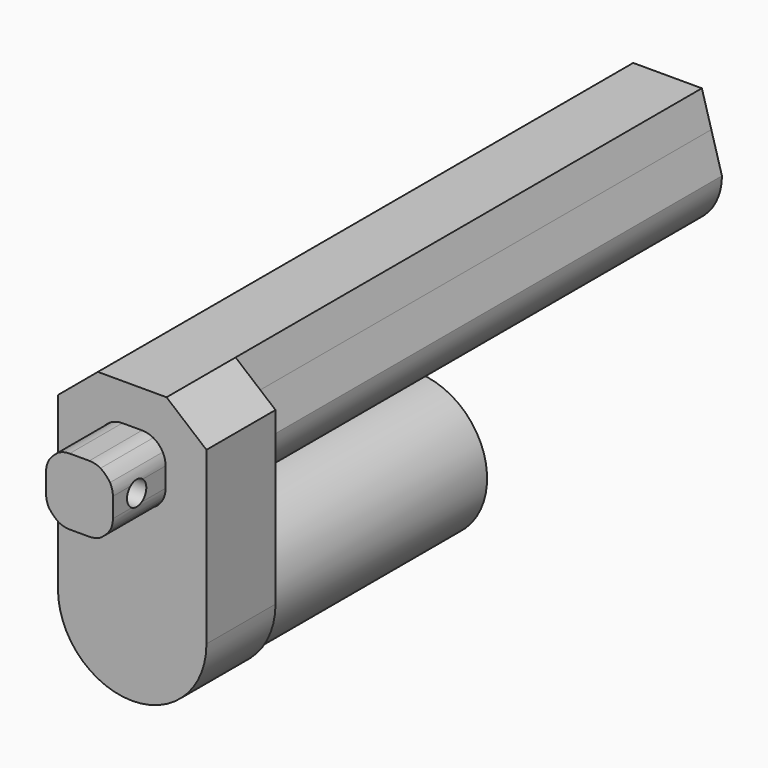
from build123d import *

# Parameters (mm, degrees)
F2_DEPTH = 23.25
F3_DEPTH = 41
F4_DEPTH = 72.5
F5_DEPTH = 74
F6_DEPTH = 157
F7_D     = 6.5
F7_DEPTH = 20.001
F8_D     = 6.5


with BuildPart() as f2:
    # F0 (on Front) → F2 (new body)
    with BuildSketch(Plane.XZ):
        Polygon((-9.25, 31.9843477787), (-20, 23.0156522213), (-11.7989976847, 23.0156522213), align=None)
        with BuildLine():
            Line((-11.7989976847, 23.0156522213), (-20, 23.0156522213))
            Line((-20, 23.0156522213), (-20, -23.0156522213))
            Line((-20, -23.0156522213), (-19, -23.0156522213))
            ThreePointArc((-19, -23.0156522213), (0, -4.0156522213), (19, -23.0156522213))
            Line((19, -23.0156522213), (20, -23.0156522213))
            Line((20, -23.0156522213), (20, 23.0156522213))
            Line((20, 23.0156522213), (11.7989976847, 23.0156522213))
            Line((11.7989976847, 23.0156522213), (14.65, 12.9843477787))
            ThreePointArc((14.65, 12.9843477787), (0, -1.7589444033), (-14.65, 12.9843477787))
            Line((-14.65, 12.9843477787), (-11.7989976847, 23.0156522213))
        make_face()
        Polygon((-9.25, 31.9843477787), (-11.7989976847, 23.0156522213), (11.7989976847, 23.0156522213), (9.25, 31.9843477787), align=None)
        with BuildLine():
            Line((-19, -23.0156522213), (-20, -23.0156522213))
            ThreePointArc((-20, -23.0156522213), (0, -43.0156522213), (20, -23.0156522213))
            Line((20, -23.0156522213), (19, -23.0156522213))
            ThreePointArc((19, -23.0156522213), (0, -42.0156522213), (-19, -23.0156522213))
        make_face()
        Polygon((9.25, 31.9843477787), (11.7989976847, 23.0156522213), (20, 23.0156522213), align=None)
        with BuildLine():
            Line((-10, 12.9843477787), (-14.65, 12.9843477787))
            ThreePointArc((-14.65, 12.9843477787), (0, -1.7589444033), (14.65, 12.9843477787))
            Line((14.65, 12.9843477787), (10, 12.9843477787))
            ThreePointArc((10, 12.9843477787), (9.5475471091, 10.0104035628), (8.2311311601, 7.3055732784))
            ThreePointArc((8.2311311601, 7.3055732784), (7.1401280605, 5.8442197181), (5.6787745002, 4.7532166185))
            ThreePointArc((5.6787745002, 4.7532166185), (0, 2.9843477787), (-5.6787745002, 4.7532166185))
            ThreePointArc((-5.6787745002, 4.7532166185), (-7.1401280605, 5.8442197181), (-8.2311311601, 7.3055732784))
            ThreePointArc((-8.2311311601, 7.3055732784), (-9.5475471091, 10.0104035628), (-10, 12.9843477787))
        make_face()
        with BuildLine():
            Line((11.7989976847, 23.0156522213), (-11.7989976847, 23.0156522213))
            Line((-11.7989976847, 23.0156522213), (-14.65, 12.9843477787))
            Line((-14.65, 12.9843477787), (-10, 12.9843477787))
            ThreePointArc((-10, 12.9843477787), (-9.5475471091, 15.9582919946), (-8.2311311601, 18.6631222789))
            ThreePointArc((-8.2311311601, 18.6631222789), (-7.1401280605, 20.1244758392), (-5.6787745002, 21.2154789388))
            ThreePointArc((-5.6787745002, 21.2154789388), (0, 22.9843477787), (5.6787745002, 21.2154789388))
            ThreePointArc((5.6787745002, 21.2154789388), (7.1401280605, 20.1244758392), (8.2311311601, 18.6631222789))
            ThreePointArc((8.2311311601, 18.6631222789), (9.5475471091, 15.9582919946), (10, 12.9843477787))
            Line((10, 12.9843477787), (14.65, 12.9843477787))
            Line((14.65, 12.9843477787), (11.7989976847, 23.0156522213))
        make_face()
        with BuildLine():
            ThreePointArc((5.6787745002, 21.2154789388), (0, 22.9843477787), (-5.6787745002, 21.2154789388))
            ThreePointArc((-5.6787745002, 21.2154789388), (-4.2124207393, 21.7891297759), (-2.65, 21.9843477787))
            Line((-2.65, 21.9843477787), (2.65, 21.9843477787))
            ThreePointArc((2.65, 21.9843477787), (4.2124207393, 21.7891297759), (5.6787745002, 21.2154789388))
        make_face()
        with BuildLine():
            ThreePointArc((-8.2311311601, 18.6631222789), (-9.5475471091, 15.9582919946), (-10, 12.9843477787))
            Line((-10, 12.9843477787), (-9, 12.9843477787))
            Line((-9, 12.9843477787), (-9, 15.6343477787))
            ThreePointArc((-9, 15.6343477787), (-8.8047819972, 17.1967685179), (-8.2311311601, 18.6631222789))
        make_face()
        with BuildLine():
            Line((-9, 12.9843477787), (-10, 12.9843477787))
            ThreePointArc((-10, 12.9843477787), (-9.5475471091, 10.0104035628), (-8.2311311601, 7.3055732784))
            ThreePointArc((-8.2311311601, 7.3055732784), (-8.8047819972, 8.7719270394), (-9, 10.3343477787))
            Line((-9, 10.3343477787), (-9, 12.9843477787))
        make_face()
        with BuildLine():
            ThreePointArc((8.2311311601, 7.3055732784), (9.5475471091, 10.0104035628), (10, 12.9843477787))
            Line((10, 12.9843477787), (9, 12.9843477787))
            Line((9, 12.9843477787), (9, 10.3343477787))
            ThreePointArc((9, 10.3343477787), (8.8047819972, 8.7719270394), (8.2311311601, 7.3055732784))
        make_face()
        with BuildLine():
            Line((9, 12.9843477787), (10, 12.9843477787))
            ThreePointArc((10, 12.9843477787), (9.5475471091, 15.9582919946), (8.2311311601, 18.6631222789))
            ThreePointArc((8.2311311601, 18.6631222789), (8.8047819972, 17.1967685179), (9, 15.6343477787))
            Line((9, 15.6343477787), (9, 12.9843477787))
        make_face()
        with BuildLine():
            ThreePointArc((-2.65, 3.9843477787), (-4.2124207393, 4.1795657814), (-5.6787745002, 4.7532166185))
            ThreePointArc((-5.6787745002, 4.7532166185), (0, 2.9843477787), (5.6787745002, 4.7532166185))
            ThreePointArc((5.6787745002, 4.7532166185), (4.2124207393, 4.1795657814), (2.65, 3.9843477787))
            Line((2.65, 3.9843477787), (-2.65, 3.9843477787))
        make_face()
        with BuildLine():
            ThreePointArc((19, -23.0156522213), (0, -4.0156522213), (-19, -23.0156522213))
            Line((-19, -23.0156522213), (-6.375, -23.0156522213))
            ThreePointArc((-6.375, -23.0156522213), (0, -16.6406522213), (6.375, -23.0156522213))
            Line((6.375, -23.0156522213), (19, -23.0156522213))
        make_face()
        with BuildLine():
            ThreePointArc((6.375, -23.0156522213), (0, -16.6406522213), (-6.375, -23.0156522213))
            Line((-6.375, -23.0156522213), (6.375, -23.0156522213))
        make_face()
        with BuildLine():
            Line((6.375, -23.0156522213), (-6.375, -23.0156522213))
            ThreePointArc((-6.375, -23.0156522213), (0, -29.3906522213), (6.375, -23.0156522213))
        make_face()
        with BuildLine():
            Line((-6.375, -23.0156522213), (-19, -23.0156522213))
            ThreePointArc((-19, -23.0156522213), (0, -42.0156522213), (19, -23.0156522213))
            Line((19, -23.0156522213), (6.375, -23.0156522213))
            ThreePointArc((6.375, -23.0156522213), (0, -29.3906522213), (-6.375, -23.0156522213))
        make_face()
    extrude(amount=F2_DEPTH)

    # F0 (on Front) → F3 (join)
    with BuildSketch(Plane.XZ):
        with BuildLine():
            ThreePointArc((-5.6787745002, 21.2154789388), (-7.0710678119, 20.0554155905), (-8.2311311601, 18.6631222789))
            ThreePointArc((-8.2311311601, 18.6631222789), (-8.8047819972, 17.1967685179), (-9, 15.6343477787))
            Line((-9, 15.6343477787), (-9, 12.9843477787))
            Line((-9, 12.9843477787), (0, 12.9843477787))
            Line((0, 12.9843477787), (9, 12.9843477787))
            Line((9, 12.9843477787), (9, 15.6343477787))
            ThreePointArc((9, 15.6343477787), (8.8047819972, 17.1967685179), (8.2311311601, 18.6631222789))
            ThreePointArc((8.2311311601, 18.6631222789), (7.0710678119, 20.0554155905), (5.6787745002, 21.2154789388))
            ThreePointArc((5.6787745002, 21.2154789388), (4.2124207393, 21.7891297759), (2.65, 21.9843477787))
            Line((2.65, 21.9843477787), (-2.65, 21.9843477787))
            ThreePointArc((-2.65, 21.9843477787), (-4.2124207393, 21.7891297759), (-5.6787745002, 21.2154789388))
        make_face()
        with BuildLine():
            ThreePointArc((-9, 10.3343477787), (-8.8047819972, 8.7719270394), (-8.2311311601, 7.3055732784))
            ThreePointArc((-8.2311311601, 7.3055732784), (-7.0710678119, 5.9132799668), (-5.6787745002, 4.7532166185))
            ThreePointArc((-5.6787745002, 4.7532166185), (-4.2124207393, 4.1795657814), (-2.65, 3.9843477787))
            Line((-2.65, 3.9843477787), (2.65, 3.9843477787))
            ThreePointArc((2.65, 3.9843477787), (4.2124207393, 4.1795657814), (5.6787745002, 4.7532166185))
            ThreePointArc((5.6787745002, 4.7532166185), (7.0710678119, 5.9132799668), (8.2311311601, 7.3055732784))
            ThreePointArc((8.2311311601, 7.3055732784), (8.8047819972, 8.7719270394), (9, 10.3343477787))
            Line((9, 10.3343477787), (9, 12.9843477787))
            Line((9, 12.9843477787), (0, 12.9843477787))
            Line((0, 12.9843477787), (-9, 12.9843477787))
            Line((-9, 12.9843477787), (-9, 10.3343477787))
        make_face()
    extrude(amount=F3_DEPTH)

    # F0 (on Front) → F4 (join)
    with BuildSketch(Plane.XZ):
        with BuildLine():
            ThreePointArc((19, -23.0156522213), (0, -4.0156522213), (-19, -23.0156522213))
            Line((-19, -23.0156522213), (-6.375, -23.0156522213))
            ThreePointArc((-6.375, -23.0156522213), (0, -16.6406522213), (6.375, -23.0156522213))
            Line((6.375, -23.0156522213), (19, -23.0156522213))
        make_face()
        with BuildLine():
            Line((-6.375, -23.0156522213), (-19, -23.0156522213))
            ThreePointArc((-19, -23.0156522213), (0, -42.0156522213), (19, -23.0156522213))
            Line((19, -23.0156522213), (6.375, -23.0156522213))
            ThreePointArc((6.375, -23.0156522213), (0, -29.3906522213), (-6.375, -23.0156522213))
        make_face()
    extrude(amount=-F4_DEPTH)

    # F0 (on Front) → F5 (join)
    with BuildSketch(Plane.XZ):
        with BuildLine():
            ThreePointArc((6.375, -23.0156522213), (0, -16.6406522213), (-6.375, -23.0156522213))
            Line((-6.375, -23.0156522213), (6.375, -23.0156522213))
        make_face()
        with BuildLine():
            Line((6.375, -23.0156522213), (-6.375, -23.0156522213))
            ThreePointArc((-6.375, -23.0156522213), (0, -29.3906522213), (6.375, -23.0156522213))
        make_face()
    extrude(amount=-F5_DEPTH)

    # F0 (on Front) → F6 (join)
    with BuildSketch(Plane.XZ):
        Polygon((-9.25, 31.9843477787), (-11.7989976847, 23.0156522213), (11.7989976847, 23.0156522213), (9.25, 31.9843477787), align=None)
        with BuildLine():
            Line((11.7989976847, 23.0156522213), (-11.7989976847, 23.0156522213))
            Line((-11.7989976847, 23.0156522213), (-14.65, 12.9843477787))
            Line((-14.65, 12.9843477787), (-10, 12.9843477787))
            ThreePointArc((-10, 12.9843477787), (-9.5475471091, 15.9582919946), (-8.2311311601, 18.6631222789))
            ThreePointArc((-8.2311311601, 18.6631222789), (-7.1401280605, 20.1244758392), (-5.6787745002, 21.2154789388))
            ThreePointArc((-5.6787745002, 21.2154789388), (0, 22.9843477787), (5.6787745002, 21.2154789388))
            ThreePointArc((5.6787745002, 21.2154789388), (7.1401280605, 20.1244758392), (8.2311311601, 18.6631222789))
            ThreePointArc((8.2311311601, 18.6631222789), (9.5475471091, 15.9582919946), (10, 12.9843477787))
            Line((10, 12.9843477787), (14.65, 12.9843477787))
            Line((14.65, 12.9843477787), (11.7989976847, 23.0156522213))
        make_face()
        with BuildLine():
            Line((-10, 12.9843477787), (-14.65, 12.9843477787))
            ThreePointArc((-14.65, 12.9843477787), (0, -1.7589444033), (14.65, 12.9843477787))
            Line((14.65, 12.9843477787), (10, 12.9843477787))
            ThreePointArc((10, 12.9843477787), (9.5475471091, 10.0104035628), (8.2311311601, 7.3055732784))
            ThreePointArc((8.2311311601, 7.3055732784), (7.1401280605, 5.8442197181), (5.6787745002, 4.7532166185))
            ThreePointArc((5.6787745002, 4.7532166185), (0, 2.9843477787), (-5.6787745002, 4.7532166185))
            ThreePointArc((-5.6787745002, 4.7532166185), (-7.1401280605, 5.8442197181), (-8.2311311601, 7.3055732784))
            ThreePointArc((-8.2311311601, 7.3055732784), (-9.5475471091, 10.0104035628), (-10, 12.9843477787))
        make_face()
    extrude(amount=-F6_DEPTH)

    # F7 (through all, one way)
    with BuildSketch(Plane.YZ):
        with Locations((-33, 13.1192486733)):
            Circle(F7_D / 2)
    extrude(amount=-F7_DEPTH, mode=Mode.SUBTRACT)

    # F8 (through all)
    with Locations(Plane(origin=(0, 0, 0), x_dir=(0, 1, 0), z_dir=(-1, 0, 0))):
        with Locations((-33, -13.1192486733)):
            Hole(F8_D / 2)


solid = f2.part
